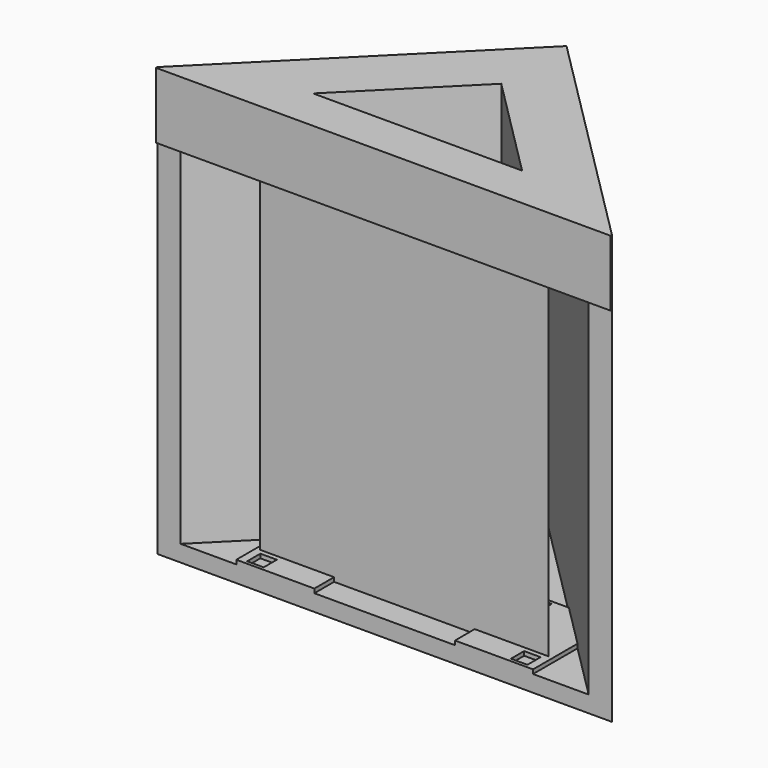
from build123d import *

# Parameters (mm, degrees)
F1_DEPTH = 2400
F2_T     = 100
F3_W     = 2757.8571443297
F3_H     = 400
F4_DEPTH = 10
F5_W     = 100
F5_H     = 100
F5_W_2   = 60
F5_H_2   = 110
F5_W_3   = 250
F5_H_3   = 160
F6_DEPTH = 25


with BuildPart() as f1:
    # F0 (on Top) → F1 (new body)
    with BuildSketch(Plane.XY):
        Polygon((1237.5, 0), (0, 1237.3737309318), (-1237.5, 0), align=None)
        Polygon((-875, 149.7747893482), (0, 1025.5709985202), (875, 149.7747893482), align=None, mode=Mode.SUBTRACT)
    extrude(amount=F1_DEPTH)

    # F2
    f2_openings = [f1.faces().sort_by_distance(p)[0] for p in [
        (0, 0, 1200),
    ]]
    offset(amount=F2_T, openings=f2_openings, kind=Kind.INTERSECTION)

    # F3 (on face) → F4 (join)
    with BuildSketch(Plane.XZ):
        with Locations((0, 2300)):
            Rectangle(F3_W, F3_H)
    extrude(amount=F4_DEPTH)

    # F5 (on face) → F6 (join)
    with BuildSketch(Plane.XY):
        Polygon((-637.4387723862, 600), (-900, 337.4655629814), (-900, 0), (-426.5, 0), (-426.5, 150), (426.5, 150), (426.5, 0), (900, 0), (900, 337.4655629814), (637.4387723862, 600), (300, 600), (300, 750), (-300, 750), (-300, 600), align=None)
        with Locations((-800, 70)):
            Rectangle(F5_W, F5_H, mode=Mode.SUBTRACT)
        with Locations((-65, 220)):
            Rectangle(F5_W, F5_H, mode=Mode.SUBTRACT)
        with Locations((-410, 305)):
            Rectangle(F5_W_2, F5_H_2, mode=Mode.SUBTRACT)
        with Locations((800, 70)):
            Rectangle(F5_W, F5_H, mode=Mode.SUBTRACT)
        with Locations((65, 220)):
            Rectangle(F5_W, F5_H, mode=Mode.SUBTRACT)
        with Locations((410, 305)):
            Rectangle(F5_W_2, F5_H_2, mode=Mode.SUBTRACT)
        with Locations((-500, 530)):
            Rectangle(F5_W, F5_H, mode=Mode.SUBTRACT)
        with Locations((-200, 530)):
            Rectangle(F5_W, F5_H, mode=Mode.SUBTRACT)
        with Locations((-65, 600)):
            Rectangle(F5_W, F5_H, mode=Mode.SUBTRACT)
        with Locations((0, 430)):
            Rectangle(F5_W_3, F5_H_3, mode=Mode.SUBTRACT)
        with Locations((200, 530)):
            Rectangle(F5_W, F5_H, mode=Mode.SUBTRACT)
        with Locations((500, 530)):
            Rectangle(F5_W, F5_H, mode=Mode.SUBTRACT)
        with Locations((65, 600)):
            Rectangle(F5_W, F5_H, mode=Mode.SUBTRACT)
    extrude(amount=F6_DEPTH)


solid = f1.part
